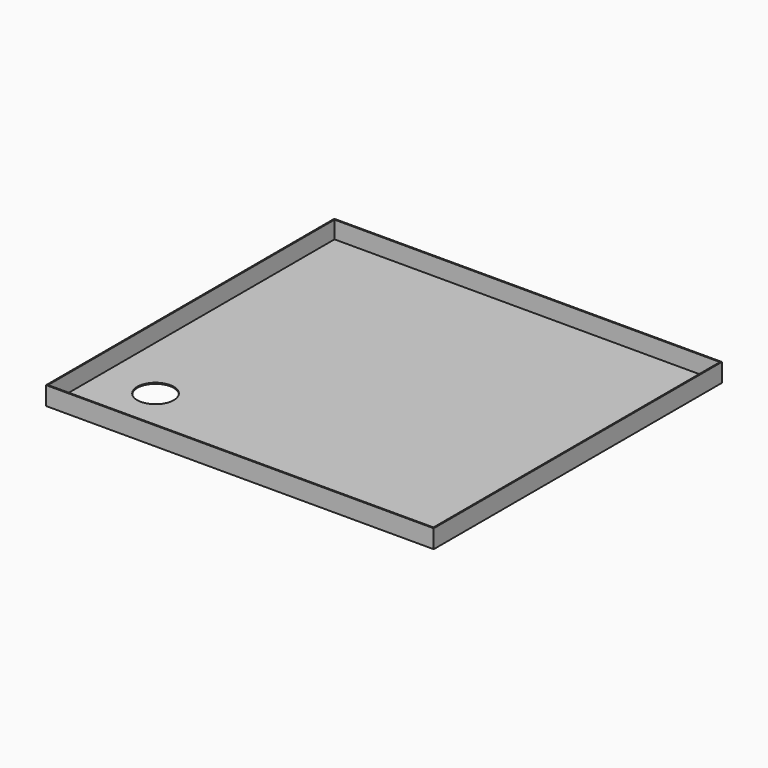
from build123d import *

# Parameters (mm, degrees)
F0_W     = 425
F0_H     = 395
F0_R     = 20
F1_DEPTH = 1.2
F2_W     = 425
F2_H     = 395
F2_W_2   = 422.6
F2_H_2   = 392.6
F3_DEPTH = 19


with BuildPart() as f1:
    # F0 (on Top) → F1 (new body)
    with BuildSketch(Plane.XY):
        Rectangle(F0_W, F0_H)
        with Locations((-152.5, -122.5)):
            Circle(F0_R, mode=Mode.SUBTRACT)
    extrude(amount=F1_DEPTH)

    # F2 (on face) → F3 (join)
    with BuildSketch(Plane.XY.offset(1.2)):
        Rectangle(F2_W, F2_H)
        Rectangle(F2_W_2, F2_H_2, mode=Mode.SUBTRACT)
    extrude(amount=F3_DEPTH)


solid = f1.part
